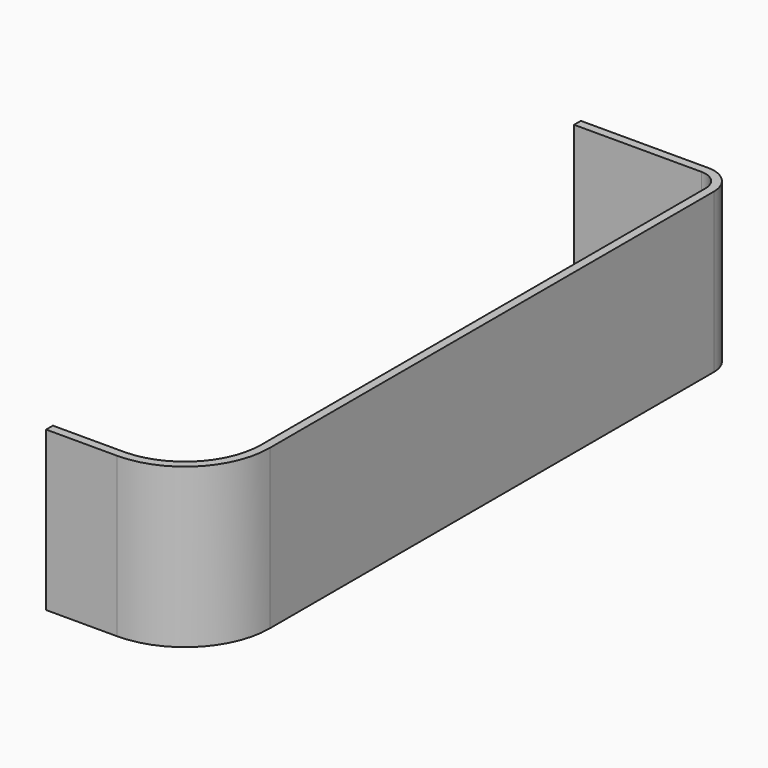
from build123d import *

# Parameters (mm, degrees)
F1_DEPTH      = 18
F1_DEPTH_BACK = 38.1


with BuildPart() as f1:
    # F0 (on Top) → F1 (new body, two sides)
    with BuildSketch(Plane.XY) as f1_sk:
        with BuildLine():
            ThreePointArc((25, -133), (46.2132034356, -124.2132034356), (55, -103))
            Line((55, -103), (55, 93))
            ThreePointArc((55, 93), (52.0710678119, 100.0710678119), (45, 103))
            Line((45, 103), (0, 103))
            Line((0, 103), (0, 100))
            Line((0, 100), (45, 100))
            ThreePointArc((45, 100), (49.9497474683, 97.9497474683), (52, 93))
            Line((52, 93), (52, -103))
            ThreePointArc((52, -103), (44.091883092, -122.091883092), (25, -130))
            Line((25, -130), (0, -130))
            Line((0, -130), (0, -133))
            Line((0, -133), (25, -133))
        make_face()
    extrude(amount=-F1_DEPTH)
    extrude(f1_sk.sketch, amount=F1_DEPTH_BACK)


solid = f1.part
